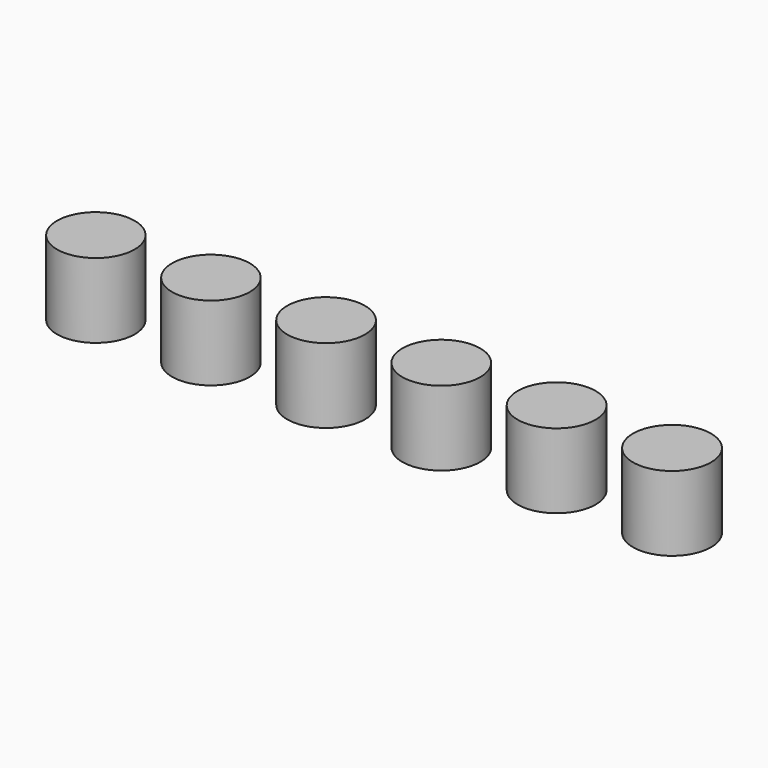
from build123d import *

# Parameters (mm, degrees)
F0_R     = 13.208
F0_R_2   = 13.2207
F0_R_3   = 13.2334
F0_R_4   = 13.2461
F0_R_5   = 13.2588
F0_R_6   = 13.2715
F1_DEPTH = 25.4


with BuildPart() as f1:
    # F0 (on Top) → F1 (new body)
    with BuildSketch(Plane.XY):
        Circle(F0_R)
        with Locations((39.1287, 0)):
            Circle(F0_R_2)
        with Locations((78.2828, 0)):
            Circle(F0_R_3)
        with Locations((117.4623, 0)):
            Circle(F0_R_4)
        with Locations((156.6672, 0)):
            Circle(F0_R_5)
        with Locations((195.8975, 0)):
            Circle(F0_R_6)
    extrude(amount=F1_DEPTH)


solid = f1.part
